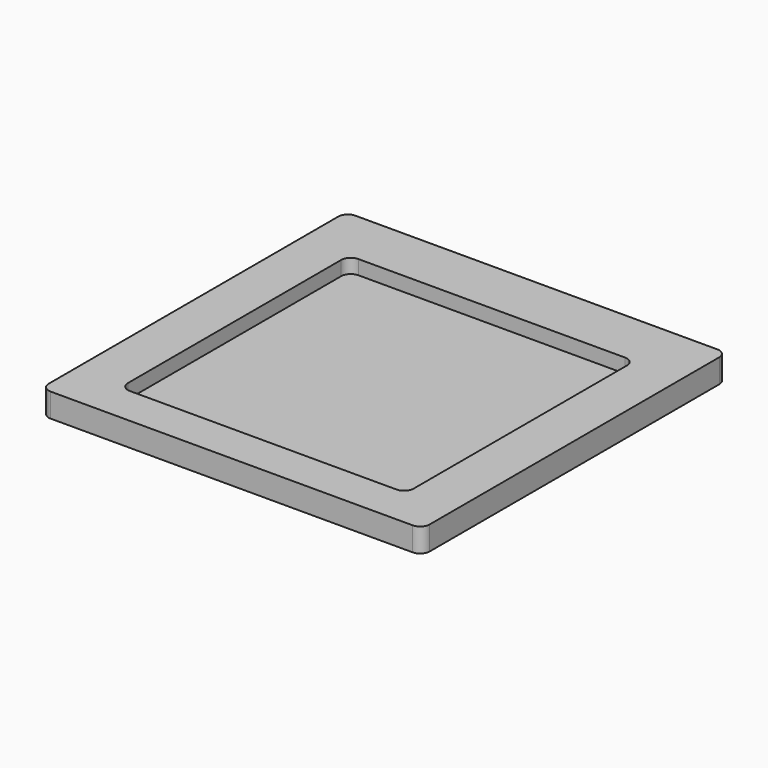
from build123d import *

# Parameters (mm, degrees)
F1_DEPTH = 5
F3_DEPTH = 3


with BuildPart() as f1:
    # F0 (on Top) → F1 (new body)
    with BuildSketch(Plane.XY):
        with BuildLine():
            Line((38, 40), (-38, 40))
            ThreePointArc((-38, 40), (-39.414214, 39.414214), (-40, 38))
            Line((-40, 38), (-40, -38))
            ThreePointArc((-40, -38), (-39.414214, -39.414214), (-38, -40))
            Line((-38, -40), (38, -40))
            ThreePointArc((38, -40), (39.414214, -39.414214), (40, -38))
            Line((40, -38), (40, 38))
            ThreePointArc((40, 38), (39.414214, 39.414214), (38, 40))
        make_face()
    extrude(amount=F1_DEPTH)

    # F2 (on face) → F3 (cut)
    with BuildSketch(Plane.XY.offset(5)):
        with BuildLine():
            Line((28, 28.277318), (-28, 28.277318))
            ThreePointArc((-28, 28.277318), (-29.414214, 27.691532), (-30, 26.277318))
            Line((-30, 26.277318), (-30, -29.722682))
            ThreePointArc((-30, -29.722682), (-29.414214, -31.136895), (-28, -31.722682))
            Line((-28, -31.722682), (28, -31.722682))
            ThreePointArc((28, -31.722682), (29.414214, -31.136895), (30, -29.722682))
            Line((30, -29.722682), (30, 26.277318))
            ThreePointArc((30, 26.277318), (29.414214, 27.691532), (28, 28.277318))
        make_face()
    extrude(amount=-F3_DEPTH, mode=Mode.SUBTRACT)


solid = f1.part
